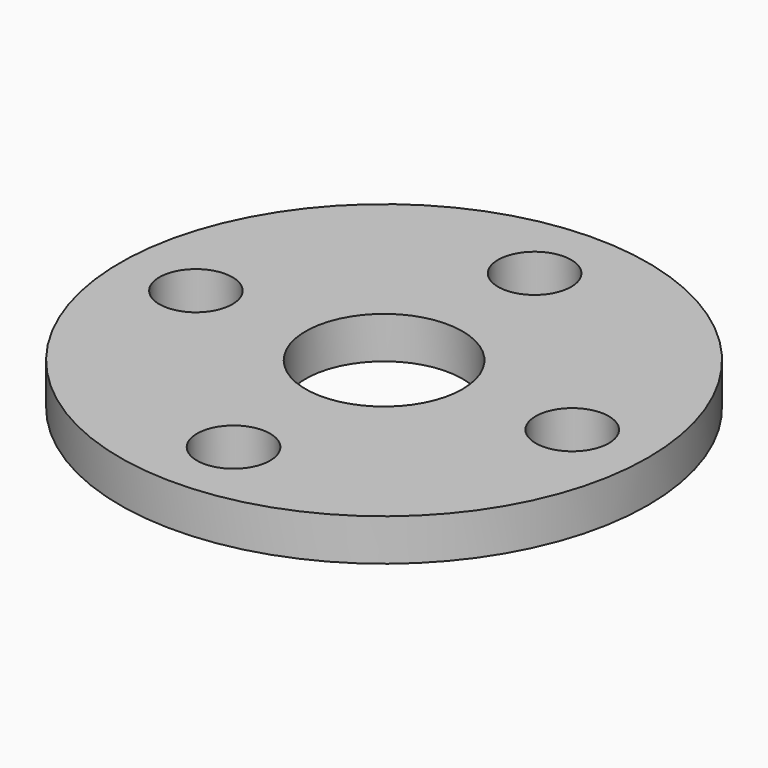
from build123d import *

# Parameters (mm, degrees)
F0_R     = 50.5
F1_DEPTH = 8
F2_R     = 7
F2_R_2   = 15
F3_DEPTH = 8


with BuildPart() as f1:
    # F0 (on Top) → F1 (new body)
    with BuildSketch(Plane.XY):
        Circle(F0_R)
    extrude(amount=F1_DEPTH)

    # F2 (on face) → F3 (cut, through all)
    with BuildSketch(Plane.XY.offset(8)):
        with Locations((-36, 0)):
            Circle(F2_R)
        with Locations((0, 36)):
            Circle(F2_R)
        with Locations((36, 0)):
            Circle(F2_R)
        with Locations((0, -36)):
            Circle(F2_R)
        Circle(F2_R_2)
    extrude(amount=-F3_DEPTH, mode=Mode.SUBTRACT)


solid = f1.part
